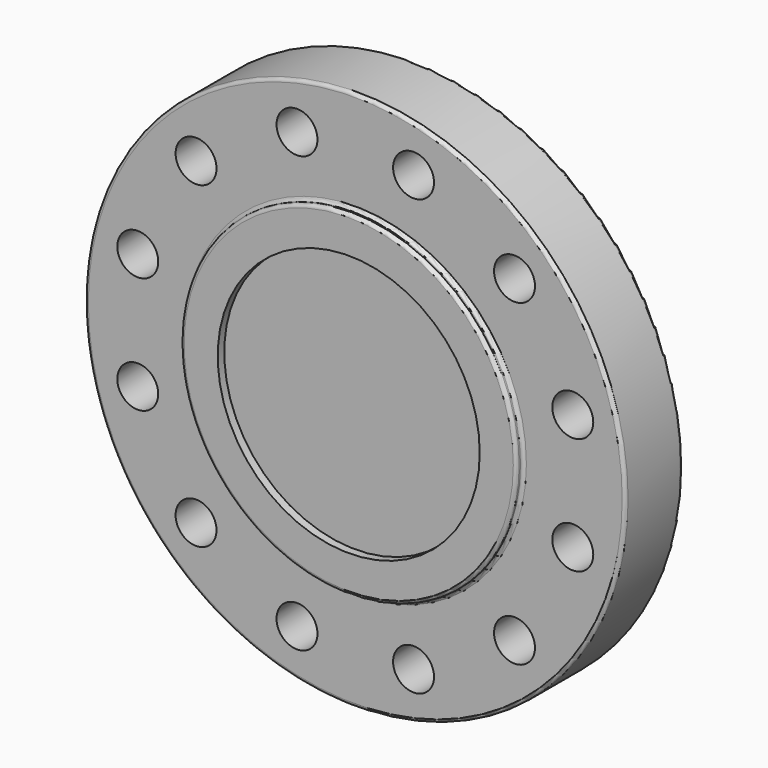
from build123d import *

# Parameters (mm, degrees)
F0_R     = 209.55
F0_R_2   = 15.875
F1_DEPTH = 55.626
F2_R     = 130.175
F2_R_2   = 101.6
F3_DEPTH = 6.35
F4_R     = 2.54


with BuildPart() as f1:
    # F0 (on Front) → F1 (new body)
    with BuildSketch(Plane.XZ):
        Circle(F0_R)
        with Locations((-123.478522, -123.478522)):
            Circle(F0_R_2, mode=Mode.SUBTRACT)
        with Locations((-45.196276, -168.674797)):
            Circle(F0_R_2, mode=Mode.SUBTRACT)
        with Locations((-168.674797, -45.196276)):
            Circle(F0_R_2, mode=Mode.SUBTRACT)
        with Locations((45.196276, -168.674797)):
            Circle(F0_R_2, mode=Mode.SUBTRACT)
        with Locations((123.478522, -123.478522)):
            Circle(F0_R_2, mode=Mode.SUBTRACT)
        with Locations((168.674797, -45.196276)):
            Circle(F0_R_2, mode=Mode.SUBTRACT)
        with Locations((-168.674797, 45.196276)):
            Circle(F0_R_2, mode=Mode.SUBTRACT)
        with Locations((-123.478522, 123.478522)):
            Circle(F0_R_2, mode=Mode.SUBTRACT)
        with Locations((-45.196276, 168.674797)):
            Circle(F0_R_2, mode=Mode.SUBTRACT)
        with Locations((168.674797, 45.196276)):
            Circle(F0_R_2, mode=Mode.SUBTRACT)
        with Locations((45.196276, 168.674797)):
            Circle(F0_R_2, mode=Mode.SUBTRACT)
        with Locations((123.478522, 123.478522)):
            Circle(F0_R_2, mode=Mode.SUBTRACT)
    extrude(amount=F1_DEPTH)

    # F2 (on face) → F3 (join)
    with BuildSketch(Plane.XZ.offset(55.626)):
        Circle(F2_R)
        Circle(F2_R_2, mode=Mode.SUBTRACT)
    extrude(amount=F3_DEPTH)

    # F4
    f4_edges = [f1.edges().sort_by_distance(p)[0] for p in [
        (-209.55, -55.626, 0),
        (-209.55, 0, 0),
        (-130.175, -61.976, 0),
        (-130.175, -55.626, 0),
    ]]
    fillet(f4_edges, radius=F4_R)


solid = f1.part
